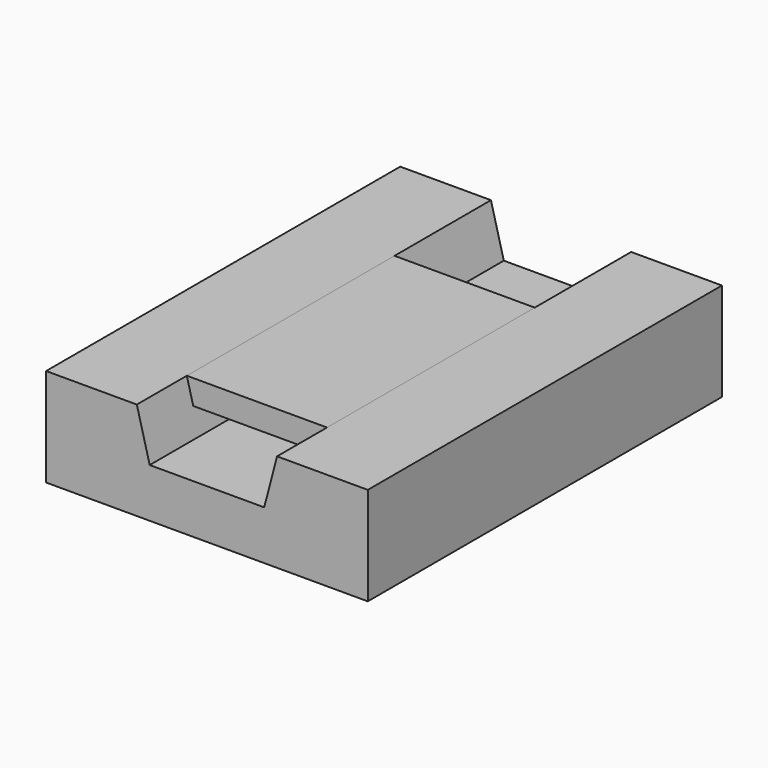
from build123d import *

# Parameters (mm, degrees)
F1_DEPTH = 354.294151
F3_DEPTH = 507.262468
F6_DEPTH = 103.910476


with BuildPart() as f1:
    # F0 (on Front) → F1 (new body)
    with BuildSketch(Plane.XZ):
        Polygon((128.760651, -39.282918), (128.760651, 39.282918), (34.918144, 39.282918), (-34.918144, 39.282918), (-128.760651, 39.282918), (-128.760651, -39.282918), align=None)
    extrude(amount=F1_DEPTH)

    # F2 (on face) → F3 (cut)
    with BuildSketch(Plane(origin=(0, 0, 0), x_dir=(-1, 0, 0), z_dir=(0, 1, 0))):
        Polygon((-45.834273, 0), (0, 0), (45.834273, 0), (71.626529, 98.541476), (45.834273, 106.292709), (45.834273, 120.067082), (0, 120.067082), (-45.834273, 120.067082), (-45.834273, 106.292709), (-71.626529, 98.541476), align=None)
    extrude(amount=-F3_DEPTH, mode=Mode.SUBTRACT)


with BuildPart() as f6:
    # F5 (on offset) → F6 (new body, symmetric)
    with BuildSketch(Plane.XZ.offset(200.386047)):
        Polygon((50.975231, 19.641459), (56.116188, 39.282918), (-56.116188, 39.282918), (-50.975231, 19.641459), align=None)
    extrude(amount=F6_DEPTH, both=True)


solid = Compound([f1.part, f6.part])
